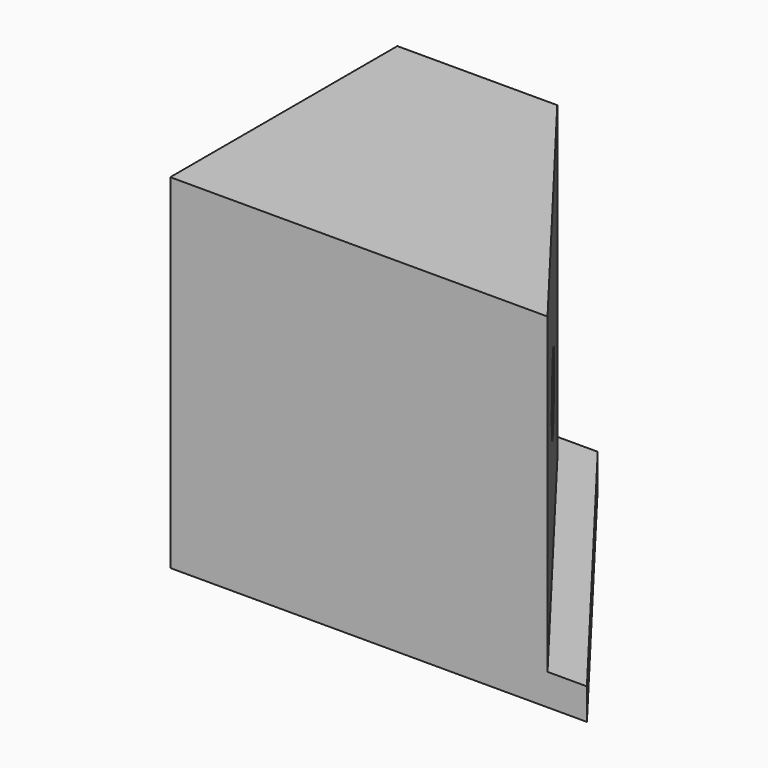
from build123d import *

# Parameters (mm, degrees)
F1_DEPTH = 6.35
F3_DEPTH = 63.5
F4_R     = 7.097159
F5_DEPTH = 159.004


with BuildPart() as f1:
    # F0 (on Top) → F1 (new body)
    with BuildSketch(Plane.XY):
        Polygon((-6.691513, 31.987395), (-42.290725, 31.987395), (-42.290725, -31.987395), (42.290725, -31.987395), align=None)
    extrude(amount=F1_DEPTH)

    # F2 (on face) → F3 (join)
    with BuildSketch(Plane.XY.offset(6.35)):
        Polygon((-9.82716, 25.637395), (-42.290725, 25.637395), (-42.290725, -31.987395), (34.293207, -31.987395), align=None)
    extrude(amount=F3_DEPTH)

    # F4 (on face) → F5 (cut)
    with BuildSketch(Plane(origin=(-42.290725, 0, 0), x_dir=(0, -1, 0), z_dir=(-1, 0, 0))):
        with Locations((0, 35.157394)):
            Circle(F4_R)
    extrude(amount=-F5_DEPTH, mode=Mode.SUBTRACT)


solid = f1.part
